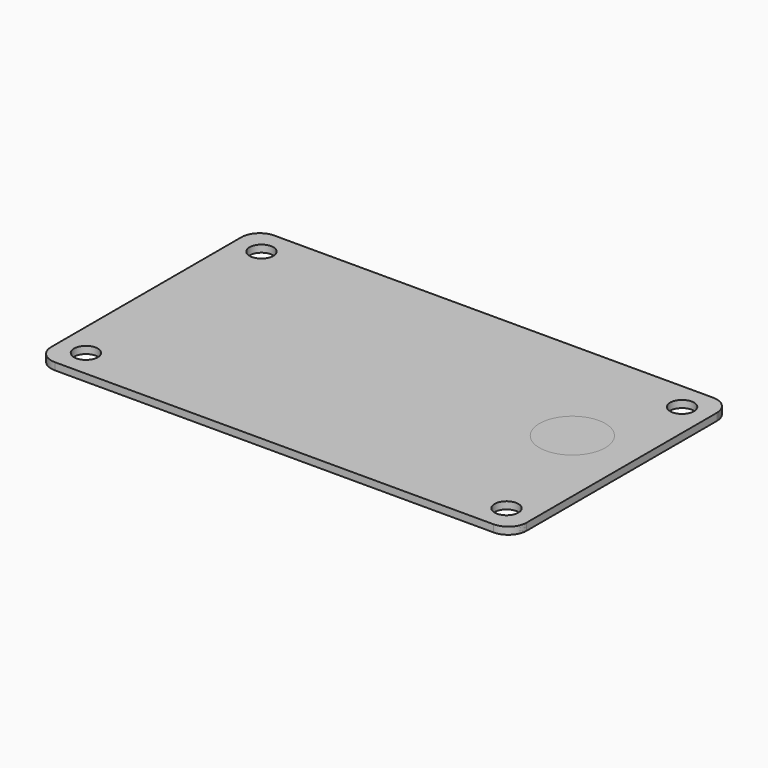
from build123d import *

# Parameters (mm, degrees)
SKETCH001_R      = 1.651
EXTRUDE_DEPTH    = 1
SKETCH002_R      = 1.651
SKETCH002_W      = 60.96
SKETCH002_H      = 2.54
EXTRUDE001_DEPTH = 1
SKETCH003_R      = 1.651
SKETCH003_W      = 60.96
SKETCH003_H      = 17.78
EXTRUDE002_DEPTH = 1
SKETCH004_R      = 1.651
EXTRUDE003_DEPTH = 1
SKETCH005_R      = 1.651
EXTRUDE004_DEPTH = 1
SKETCH006_R      = 1.651
SKETCH006_W      = 60.96
SKETCH006_H      = 17.78
EXTRUDE005_DEPTH = 1
SKETCH007_R      = 1.651
SKETCH007_R_2    = 4.572
EXTRUDE006_DEPTH = 1


with BuildPart() as obj1:
    # Sketch001 → Extrude (new body)
    with BuildSketch(Plane.XY):
        with BuildLine():
            ThreePointArc((0, 2.54), (0.743949, 0.743949), (2.54, 0))
            Line((63.5, 0), (2.54, 0))
            ThreePointArc((63.5, 0), (65.296051, 0.743949), (66.04, 2.54))
            Line((66.04, 35.56), (66.04, 2.54))
            ThreePointArc((66.04, 35.56), (65.296051, 37.356051), (63.5, 38.1))
            Line((2.54, 38.1), (63.5, 38.1))
            ThreePointArc((2.54, 38.1), (0.743949, 37.356051), (0, 35.56))
            Line((0, 2.54), (0, 35.56))
        make_face()
        with Locations((3.81, 34.29)):
            Circle(SKETCH001_R, mode=Mode.SUBTRACT)
        with Locations((3.81, 3.81)):
            Circle(SKETCH001_R, mode=Mode.SUBTRACT)
        with Locations((62.23, 3.81)):
            Circle(SKETCH001_R, mode=Mode.SUBTRACT)
        with Locations((62.23, 34.29)):
            Circle(SKETCH001_R, mode=Mode.SUBTRACT)
    extrude(amount=EXTRUDE_DEPTH)


with BuildPart() as obj2:
    # Sketch002 → Extrude001 (new body)
    with BuildSketch(Plane.XY):
        with BuildLine():
            ThreePointArc((0, 2.54), (0.743949, 0.743949), (2.54, 0))
            Line((63.5, 0), (2.54, 0))
            ThreePointArc((63.5, 0), (65.296051, 0.743949), (66.04, 2.54))
            Line((66.04, 35.560002), (66.04, 2.54))
            ThreePointArc((66.04, 35.560002), (65.29605, 37.356052), (63.5, 38.1))
            Line((2.54, 38.1), (63.5, 38.1))
            ThreePointArc((2.54, 38.1), (0.743949, 37.356051), (0, 35.56))
            Line((0, 2.54), (0, 35.56))
        make_face()
        with Locations((3.81, 34.29)):
            Circle(SKETCH002_R, mode=Mode.SUBTRACT)
        with Locations((3.81, 3.81)):
            Circle(SKETCH002_R, mode=Mode.SUBTRACT)
        with Locations((62.23, 3.81)):
            Circle(SKETCH002_R, mode=Mode.SUBTRACT)
        with Locations((62.23, 34.29)):
            Circle(SKETCH002_R, mode=Mode.SUBTRACT)
        with Locations((33.02, 13.97)):
            Rectangle(SKETCH002_W, SKETCH002_H, mode=Mode.SUBTRACT)
        with Locations((33.02, 29.21)):
            Rectangle(SKETCH002_W, SKETCH002_H, mode=Mode.SUBTRACT)
    extrude(amount=EXTRUDE001_DEPTH)


with BuildPart() as obj3:
    # Sketch003 → Extrude002 (new body)
    with BuildSketch(Plane.XY):
        with BuildLine():
            ThreePointArc((0, 2.54), (0.743949, 0.743949), (2.54, 0))
            Line((2.54, 0), (7.62, 0))
            Line((7.62, 0), (7.62, 10.16))
            Line((7.62, 10.16), (58.42, 10.16))
            Line((58.42, 10.16), (58.42, 0))
            Line((58.42, 0), (63.5, 0))
            ThreePointArc((63.5, 0), (65.296051, 0.743949), (66.04, 2.54))
            Line((66.04, 35.56), (66.04, 2.54))
            ThreePointArc((66.04, 35.56), (65.296051, 37.356051), (63.5, 38.1))
            Line((2.54, 38.1), (63.5, 38.1))
            ThreePointArc((2.54, 38.1), (0.743949, 37.356051), (0, 35.56))
            Line((0, 2.54), (0, 35.56))
        make_face()
        with Locations((3.81, 34.29)):
            Circle(SKETCH003_R, mode=Mode.SUBTRACT)
        with Locations((3.81, 3.81)):
            Circle(SKETCH003_R, mode=Mode.SUBTRACT)
        with Locations((62.23, 3.81)):
            Circle(SKETCH003_R, mode=Mode.SUBTRACT)
        with Locations((62.23, 34.29)):
            Circle(SKETCH003_R, mode=Mode.SUBTRACT)
        with Locations((33.02, 21.59)):
            Rectangle(SKETCH003_W, SKETCH003_H, mode=Mode.SUBTRACT)
    extrude(amount=EXTRUDE002_DEPTH)


with BuildPart() as obj4:
    # Sketch004 → Extrude003 (new body)
    with BuildSketch(Plane.XY):
        with BuildLine():
            ThreePointArc((0, 2.54), (0.743949, 0.743949), (2.54, 0))
            Line((63.5, 0), (2.54, 0))
            ThreePointArc((63.5, 0), (65.296051, 0.743949), (66.04, 2.54))
            Line((66.04, 2.54), (66.04, 12.7))
            Line((66.04, 12.7), (0, 12.7))
            Line((0, 12.7), (0, 2.54))
        make_face()
        with Locations((3.81, 3.81)):
            Circle(SKETCH004_R, mode=Mode.SUBTRACT)
        with Locations((62.23, 3.81)):
            Circle(SKETCH004_R, mode=Mode.SUBTRACT)
        with BuildLine():
            ThreePointArc((2.54, 38.1), (0.743949, 37.356051), (0, 35.56))
            Line((0, 35.56), (0, 30.48))
            Line((0, 30.48), (66.04, 30.48))
            Line((66.04, 30.48), (66.04, 35.56))
            ThreePointArc((66.04, 35.56), (65.296051, 37.356051), (63.5, 38.1))
            Line((2.54, 38.1), (63.5, 38.1))
        make_face()
        with Locations((3.81, 34.29)):
            Circle(SKETCH004_R, mode=Mode.SUBTRACT)
        with Locations((62.23, 34.29)):
            Circle(SKETCH004_R, mode=Mode.SUBTRACT)
    extrude(amount=EXTRUDE003_DEPTH)


with BuildPart() as obj5:
    # Sketch005 → Extrude004 (new body)
    with BuildSketch(Plane.XY):
        with BuildLine():
            ThreePointArc((0, 2.54), (0.743949, 0.743949), (2.54, 0))
            Line((63.5, 0), (2.54, 0))
            ThreePointArc((63.5, 0), (65.296051, 0.743949), (66.04, 2.54))
            Line((66.04, 35.56), (66.04, 2.54))
            ThreePointArc((66.04, 35.56), (65.296051, 37.356051), (63.5, 38.1))
            Line((2.54, 38.1), (63.5, 38.1))
            ThreePointArc((2.54, 38.1), (0.743949, 37.356051), (0, 35.56))
            Line((0, 35.56), (0, 30.48))
            Line((0, 30.48), (63.5, 30.48))
            Line((63.5, 30.48), (63.5, 12.7))
            Line((0, 12.7), (63.5, 12.7))
            Line((0, 12.7), (0, 2.54))
        make_face()
        with Locations((3.81, 34.29)):
            Circle(SKETCH005_R, mode=Mode.SUBTRACT)
        with Locations((3.81, 3.81)):
            Circle(SKETCH005_R, mode=Mode.SUBTRACT)
        with Locations((62.23, 3.81)):
            Circle(SKETCH005_R, mode=Mode.SUBTRACT)
        with Locations((62.23, 34.29)):
            Circle(SKETCH005_R, mode=Mode.SUBTRACT)
    extrude(amount=EXTRUDE004_DEPTH)


with BuildPart() as obj6:
    # Sketch006 → Extrude005 (new body)
    with BuildSketch(Plane.XY):
        with BuildLine():
            ThreePointArc((0, 2.54), (0.743949, 0.743949), (2.54, 0))
            Line((2.54, 0), (63.5, 0))
            ThreePointArc((63.5, 0), (65.296051, 0.743949), (66.04, 2.54))
            Line((66.04, 35.56), (66.04, 2.54))
            ThreePointArc((66.04, 35.56), (65.296051, 37.356051), (63.5, 38.1))
            Line((2.54, 38.1), (63.5, 38.1))
            ThreePointArc((2.54, 38.1), (0.743949, 37.356051), (0, 35.56))
            Line((0, 2.54), (0, 35.56))
        make_face()
        with Locations((3.81, 34.29)):
            Circle(SKETCH006_R, mode=Mode.SUBTRACT)
        with Locations((3.81, 3.81)):
            Circle(SKETCH006_R, mode=Mode.SUBTRACT)
        with Locations((62.23, 3.81)):
            Circle(SKETCH006_R, mode=Mode.SUBTRACT)
        with Locations((62.23, 34.29)):
            Circle(SKETCH006_R, mode=Mode.SUBTRACT)
        with Locations((33.02, 21.59)):
            Rectangle(SKETCH006_W, SKETCH006_H, mode=Mode.SUBTRACT)
    extrude(amount=EXTRUDE005_DEPTH)


with BuildPart() as obj7:
    # Sketch007 → Extrude006 (new body)
    with BuildSketch(Plane.XY):
        with BuildLine():
            ThreePointArc((0, 2.54), (0.743949, 0.743949), (2.54, 0))
            Line((63.5, 0), (2.54, 0))
            ThreePointArc((63.5, 0), (65.296059, 0.743956), (66.04, 2.540021))
            Line((66.04, 35.559979), (66.04, 2.540021))
            ThreePointArc((66.04, 35.559979), (65.296059, 37.356044), (63.5, 38.1))
            Line((2.54, 38.1), (63.5, 38.1))
            ThreePointArc((2.54, 38.1), (0.743949, 37.356051), (0, 35.56))
            Line((0, 2.54), (0, 35.56))
        make_face()
        with Locations((3.81, 34.29)):
            Circle(SKETCH007_R, mode=Mode.SUBTRACT)
        with Locations((3.81, 3.81)):
            Circle(SKETCH007_R, mode=Mode.SUBTRACT)
        with Locations((62.23, 3.81)):
            Circle(SKETCH007_R, mode=Mode.SUBTRACT)
        with Locations((62.23, 34.29)):
            Circle(SKETCH007_R, mode=Mode.SUBTRACT)
        with Locations((57.15, 21.59)):
            Circle(SKETCH007_R_2, mode=Mode.SUBTRACT)
    extrude(amount=EXTRUDE006_DEPTH)


solid = Compound([obj1.part, obj2.part, obj3.part, obj4.part, obj5.part, obj6.part, obj7.part])
